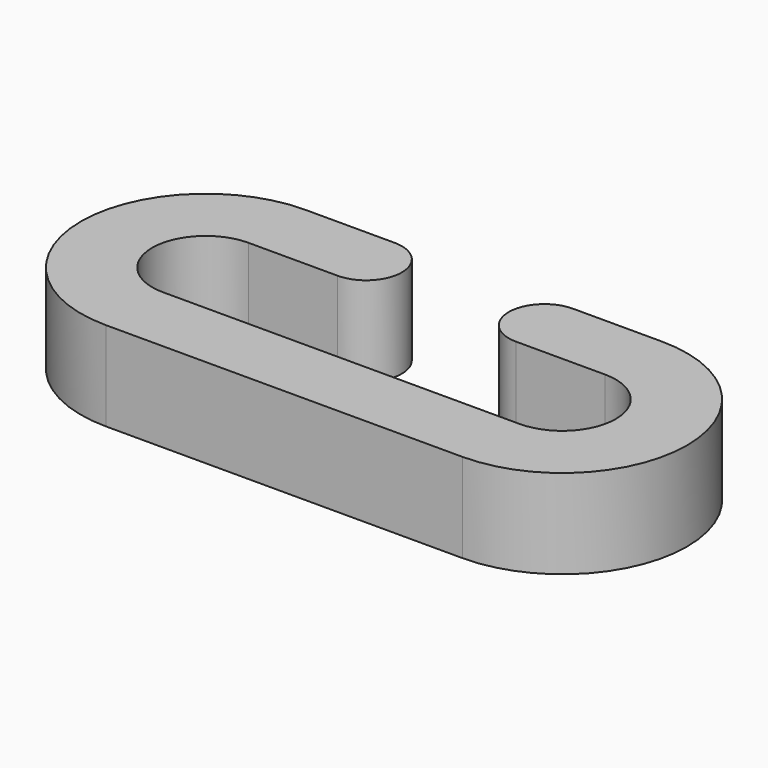
from build123d import *

# Parameters (mm, degrees)
F1_DEPTH = 5


with BuildPart() as f1:
    # F0 (on Top) → F1 (new body)
    with BuildSketch(Plane.XY):
        with BuildLine():
            Line((10, -3), (-10, -3))
            ThreePointArc((-10, -3), (-13, 0), (-10, 3))
            Line((-10, 3), (-5, 3))
            ThreePointArc((-5, 3), (-3, 5), (-5, 7))
            Line((-5, 7), (-10, 7))
            ThreePointArc((-10, 7), (-17, 0), (-10, -7))
            Line((-10, -7), (10, -7))
            ThreePointArc((10, -7), (17, 0), (10, 7))
            Line((10, 7), (5, 7))
            ThreePointArc((5, 7), (3, 5), (5, 3))
            Line((5, 3), (10, 3))
            ThreePointArc((10, 3), (13, 0), (10, -3))
        make_face()
    extrude(amount=F1_DEPTH)


solid = f1.part
